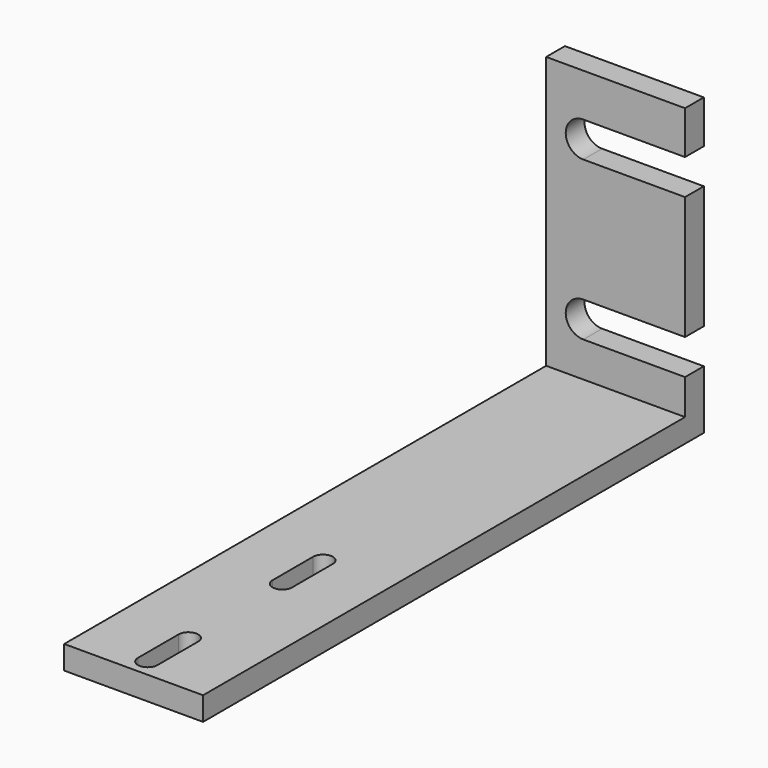
from build123d import *

# Parameters (mm, degrees)
F0_W     = 35.5
F0_H     = 6
F1_DEPTH = 160
F2_W     = 35.5
F2_H     = 6
F3_DEPTH = 69.5
F5_DEPTH = 25
F6_DEPTH = 25
F8_DEPTH = 25


with BuildPart() as f1:
    # F0 (on Front) → F1 (new body)
    with BuildSketch(Plane.XZ):
        Rectangle(F0_W, F0_H)
    extrude(amount=F1_DEPTH)

    # F2 (on face) → F3 (join)
    with BuildSketch(Plane.XY.offset(3)):
        with Locations((0, -3)):
            Rectangle(F2_W, F2_H)
    extrude(amount=F3_DEPTH)

    # F4 (on face) → F5 (cut)
    with BuildSketch(Plane.XY.offset(3)):
        with BuildLine():
            Line((2.506278, -112.369976), (2.506278, -99.630027))
            ThreePointArc((2.506278, -99.630027), (0.074696, -97.000848), (-2.490338, -99.500002))
            Line((-2.490338, -99.500002), (-2.490338, -112.500002))
            ThreePointArc((-2.490338, -112.500002), (-0.055373, -114.999156), (2.506278, -112.630027))
            Line((2.506278, -112.630027), (2.506278, -112.369976))
        make_face()
    extrude(amount=-F5_DEPTH, mode=Mode.SUBTRACT)

    # F4 (on face) → F6 (cut)
    with BuildSketch(Plane.XY.offset(3)):
        with BuildLine():
            Line((2.496616, -155.369974), (2.496616, -142.630026))
            ThreePointArc((2.496616, -142.630026), (0.065035, -140.000846), (-2.5, -142.5))
            Line((-2.5, -142.5), (-2.5, -155.5))
            ThreePointArc((-2.5, -155.5), (-0.065035, -157.999154), (2.496616, -155.630026))
            Line((2.496616, -155.630026), (2.496616, -155.369974))
        make_face()
    extrude(amount=-F6_DEPTH, mode=Mode.SUBTRACT)

    # F7 (on face) → F8 (cut)
    with BuildSketch(Plane.XZ.offset(6)):
        with BuildLine():
            Line((-8.25, 52.5), (17.75, 52.5))
            Line((17.75, 52.5), (17.75, 61.5))
            Line((17.75, 61.5), (-8.25, 61.5))
            ThreePointArc((-8.25, 61.5), (-12.75, 57), (-8.25, 52.5))
        make_face()
        with BuildLine():
            Line((17.75, 21), (-8.25, 21))
            ThreePointArc((-8.25, 21), (-12.75, 16.5), (-8.25, 12))
            Line((-8.25, 12), (17.75, 12))
            Line((17.75, 12), (17.75, 21))
        make_face()
    extrude(amount=-F8_DEPTH, mode=Mode.SUBTRACT)


solid = f1.part
